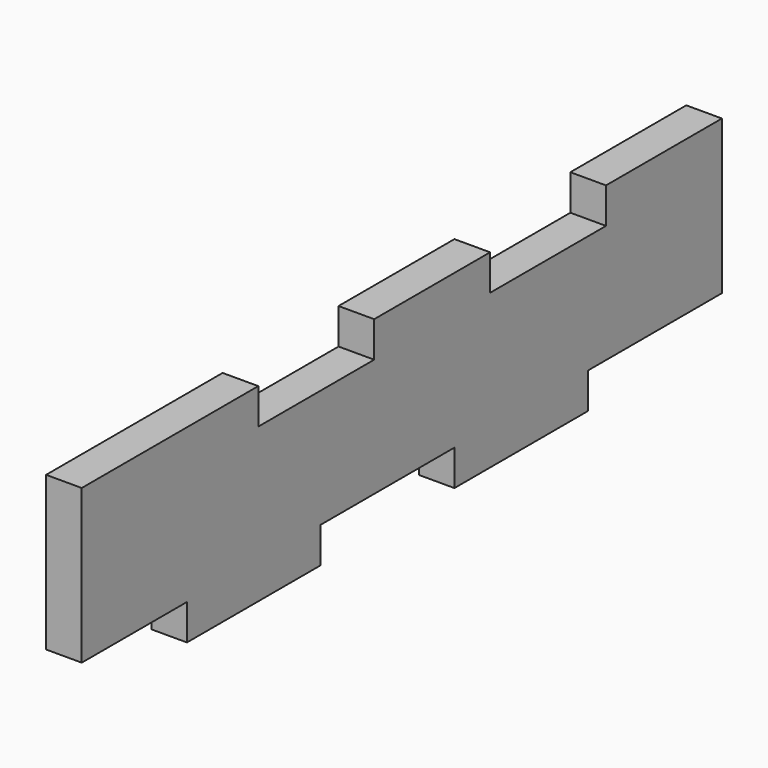
from build123d import *

# Parameters (mm, degrees)
F1_DEPTH = 1.6


with BuildPart() as f1:
    # F0 (on Right) → F1 (new body, symmetric)
    with BuildSketch(Plane.YZ):
        Polygon((-14.5, 6), (-34.3, 6), (-34.3, -0.9), (-34.3, -5.9), (-34.3, -7.8), (-22.5, -7.8), (-22.5, -11), (-7.5, -11), (-7.5, -7.8), (7.5, -7.8), (7.5, -11), (22.5, -11), (22.5, -7.8), (37.5, -7.8), (37.5, -2.8), (37.5, 6), (24.5, 6), (24.5, 2.8), (11.5, 2.8), (11.5, 6), (6.5, 6), (3.5, 6), (-1.5, 6), (-1.5, 2.8), (-14.5, 2.8), align=None)
    extrude(amount=F1_DEPTH, both=True)


solid = f1.part
